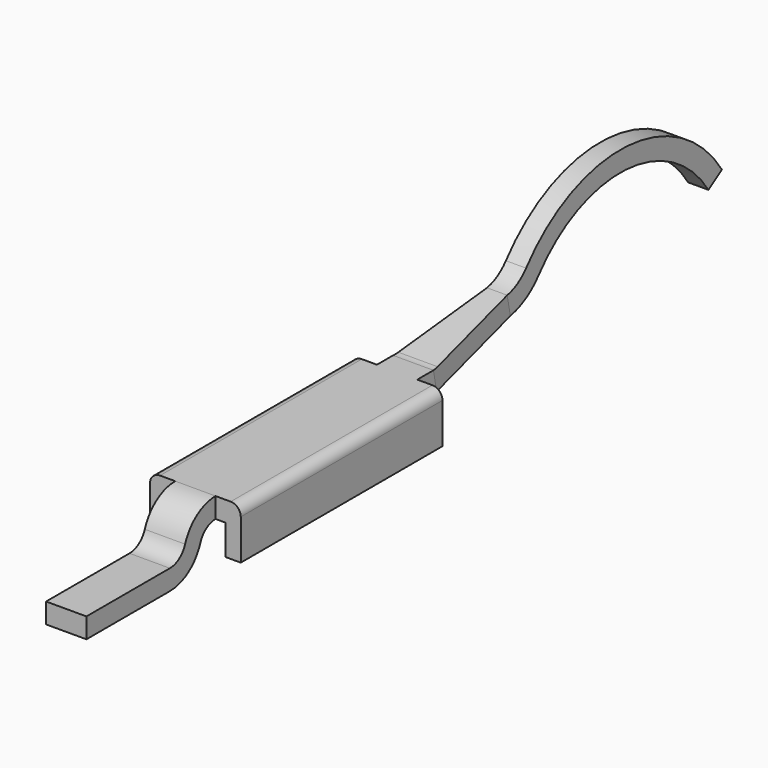
from build123d import *

# Parameters (mm, degrees)
PAD_DEPTH         = 0.4
POCKET_DEPTH      = 1.3027
POCKET_DEPTH_BACK = -1.724987
SKETCH002_W       = 2.5
SKETCH002_H       = 0.9
PAD001_DEPTH      = 0.5
SKETCH003_W       = 2.5
SKETCH003_H       = 0.6
POCKET001_DEPTH   = 0.3
FILLET_R          = 0.1


with BuildPart() as part:
    # Sketch → Pad (new body)
    with BuildSketch(Plane.YZ):
        with BuildLine():
            Line((-0.55, 0), (0.484315, 0))
            ThreePointArc((0.484315, 0), (0.715251, 0.073399), (0.861435, 0.266658))
            Line((0.86144, 0.266671), (0.861435, 0.266658))
            ThreePointArc((1.05, 0.4), (0.934532, 0.363301), (0.86144, 0.266671))
            Line((1.05, 0.4), (3.75, 0.4))
            ThreePointArc((3.75, 0.4), (3.798804, 0.402388), (3.847142, 0.409527))
            Line((3.847142, 0.409527), (4.828087, 0.603811))
            ThreePointArc((4.828087, 0.603811), (5.022026, 0.678974), (5.17865, 0.815833))
            ThreePointArc((7.282105, 0.706415), (6.258318, 1.298245), (5.17865, 0.815833))
            Line((7.45, 0.815094), (7.282105, 0.706415))
            ThreePointArc((7.45, 0.815094), (6.268711, 1.497974), (5.022942, 0.941351))
            ThreePointArc((4.78923, 0.8), (4.918525, 0.85011), (5.022942, 0.941351))
            Line((3.808285, 0.605716), (4.78923, 0.8))
            ThreePointArc((3.75, 0.6), (3.779282, 0.601433), (3.808285, 0.605716))
            Line((1.05, 0.6), (3.75, 0.6))
            ThreePointArc((1.05, 0.6), (0.81906, 0.526599), (0.672876, 0.333333))
            ThreePointArc((0.484311, 0.2), (0.599783, 0.2367), (0.672876, 0.333333))
            Line((0.484311, 0.2), (-0.55, 0.2))
            Line((-0.55, 0.2), (-0.55, 0))
        make_face()
    extrude(amount=PAD_DEPTH)

    # Sketch001 (on Face15 of Pad) → Pocket (cut, two sides)
    with BuildSketch(Plane(origin=(0, 0.02831, -0.142936), x_dir=(0, -0.980945, -0.194284), z_dir=(0, -0.194284, 0.980945))) as pocket_sk:
        Polygon((-3.795115, 0.4), (-4.853401, 0.3), (-7.466403, 0.3), (-7.466403, 0.4), align=None)
        Polygon((-3.795115, 0), (-4.853401, 0.1), (-7.466403, 0.1), (-7.466403, 0), align=None)
    extrude(amount=-POCKET_DEPTH, mode=Mode.SUBTRACT)
    extrude(pocket_sk.sketch, amount=-POCKET_DEPTH_BACK, mode=Mode.SUBTRACT)

    # Sketch002 (on Face14 of Pocket) → Pad001 (join)
    with BuildSketch(Plane(origin=(0, 0, 0.6), x_dir=(0, -1, 0), z_dir=(0, 0, 1))):
        with Locations((-2.3, 0.2)):
            Rectangle(SKETCH002_W, SKETCH002_H)
    extrude(amount=-PAD001_DEPTH)

    # Sketch003 (on Face16 of Pad001) → Pocket001 (cut)
    with BuildSketch(Plane.YX.offset(-0.1)):
        with Locations((2.3, 0.2)):
            Rectangle(SKETCH003_W, SKETCH003_H)
    extrude(amount=-POCKET001_DEPTH, mode=Mode.SUBTRACT)

    # Fillet
    fillet_edges = [part.edges().sort_by_distance(p)[0] for p in [
        (0.65, 2.3, 0.6),
        (-0.25, 2.3, 0.6),
    ]]
    fillet(fillet_edges, radius=FILLET_R)


with BuildPart() as part_1:
    # Body placement: moved
    add(part.part.moved(Location((-0.2, 0, 0))))


solid = part_1.part
